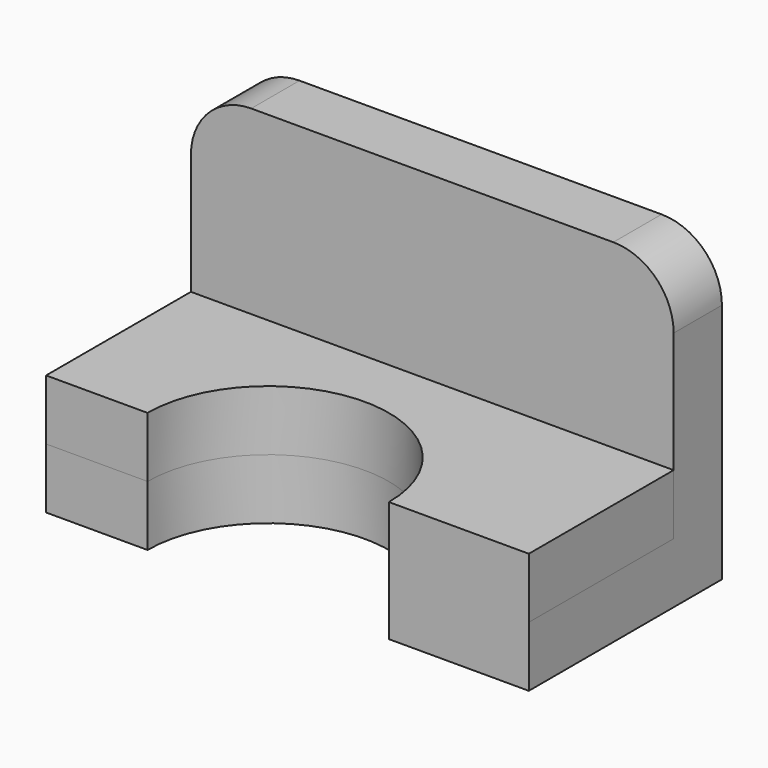
from build123d import *

# Parameters (mm, degrees)
F8_W     = 203.2
F8_H     = 101.6
F0_DEPTH = 25.4
F1_W     = 203.2
F1_H     = 25.4
F2_DEPTH = 101.6
F9_DEPTH = 25.4
F4_R     = 25.4
F5_R     = 50.8
F6_DEPTH = 25.4
F7_DEPTH = 25.4


with BuildPart() as f0:
    # F8 (on Top) → F0 (new body)
    with BuildSketch(Plane.XY):
        with Locations((55.668721, -12.031432)):
            Rectangle(F8_W, F8_H)
        with Locations((55.668721, -12.031432)):
            Rectangle(F8_W, F8_H)
    extrude(amount=F0_DEPTH)

    # F1 (on face) → F2 (join)
    with BuildSketch(Plane.XY.offset(25.4)):
        with Locations((55.668721, 26.068568)):
            Rectangle(F1_W, F1_H)
        with Locations((55.668721, 26.068568)):
            Rectangle(F1_W, F1_H)
    extrude(amount=F2_DEPTH)

    # F3 (on face) → F9 (cut)
    with BuildSketch(Plane.XZ.offset(-13.368568)):
        with BuildLine():
            Line((157.268721, 101.6), (157.268721, 127))
            Line((157.268721, 127), (131.868721, 127))
            ThreePointArc((131.868721, 127), (149.829233, 119.560512), (157.268721, 101.6))
        make_face()
    extrude(amount=-F9_DEPTH, mode=Mode.SUBTRACT)

    # F4
    f4_edges = [f0.edges().sort_by_distance(p)[0] for p in [
        (-45.931279, 26.068568, 127),
    ]]
    fillet(f4_edges, radius=F4_R)

    # F5 (on face) → F6 (cut)
    with BuildSketch(Plane.XY.offset(25.4)):
        with Locations((47.562543, -62.831432)):
            Circle(F5_R)
    extrude(amount=-F6_DEPTH, mode=Mode.SUBTRACT)

    # F0_face (on face) → F7 (join)
    with BuildSketch(Plane(origin=(55.668721, -12.031432, 25.4), x_dir=(1, 0, 0), z_dir=(0, 0, 1))):
        with BuildLine():
            Line((42.693822, -50.8), (101.6, -50.8))
            Line((101.6, -50.8), (101.6, 25.4))
            Line((101.6, 25.4), (-101.6, 25.4))
            Line((-101.6, 25.4), (-101.6, -50.8))
            Line((-101.6, -50.8), (-58.906178, -50.8))
            ThreePointArc((-58.906178, -50.8), (-8.106178, 0), (42.693822, -50.8))
        make_face()
    extrude(amount=F7_DEPTH)


solid = f0.part
